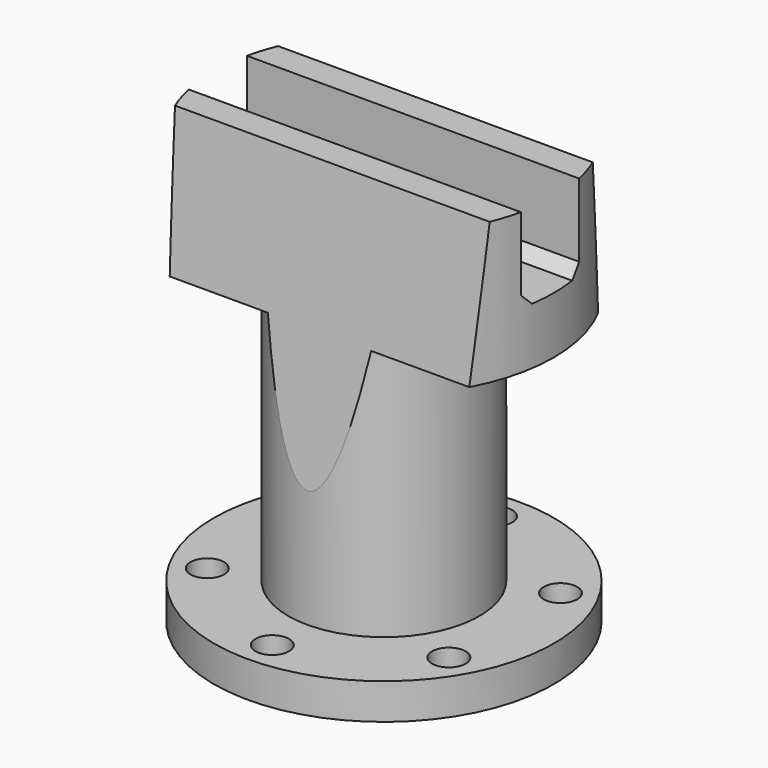
from build123d import *

# Parameters (mm, degrees)
SKETCH001_R        = 2.963423
POCKET_DEPTH       = 233.757944
POLARPATTERN_COUNT = 6
POCKET001_DEPTH    = 41
CHAMFER_SIZE       = 2


with BuildPart() as part:
    # Sketch → Revolution (revolve)
    with BuildSketch(Plane.XZ):
        Polygon((-30, 48.502502), (-30, 23.544098), (-16.870987, 23.544098), (-16.870987, -20.881861), (-30, -20.881861), (-30, -27.204653), (0, -27.204653), (0, 48.502502), align=None)
    revolve(axis=Axis((0, 0, 0), (0, 0, 1)))

    # Sketch001 (on Face4 of Revolution) → Pocket (cut, through all)
    with BuildSketch(Plane(origin=(0, 0, -20.881861), x_dir=(-1, 0, 0), z_dir=(0, 0, 1))):
        with Locations((0, -24.60987)):
            Circle(SKETCH001_R)
    pocket = extrude(amount=-POCKET_DEPTH, mode=Mode.SUBTRACT)

    # PolarPattern: Pocket ×6 about axis
    polarpattern_axis = Axis((0, 0, -20.881861), (0, 0, 1))
    for i in range(1, POLARPATTERN_COUNT):
        add(pocket.rotate(polarpattern_axis, i * 360 / POLARPATTERN_COUNT), mode=Mode.SUBTRACT)

    # Sketch002 → Pocket001 (cut, symmetric)
    with BuildSketch(Plane.YZ):
        Polygon((-46.942223, 56.337571), (-46.942223, 49.89431), (-46.942223, -10.657207), (-18.07431, -10.657207), (-11.208346, 49.89431), (-6.428893, 49.89431), (-6.428893, 33.567371), (6.428893, 33.567371), (6.428893, 49.89431), (11.208346, 49.89431), (18.07431, -10.657207), (46.942223, -10.657207), (46.942223, 49.89431), (46.942223, 56.337571), align=None)
    extrude(amount=POCKET001_DEPTH, both=True, mode=Mode.SUBTRACT)

    # Chamfer
    chamfer_edges = [part.edges().sort_by_distance(p)[0] for p in [
        (0, -6.428893, 33.567371),
        (0, 6.428893, 33.567371),
    ]]
    chamfer(chamfer_edges, length=CHAMFER_SIZE)


solid = part.part
